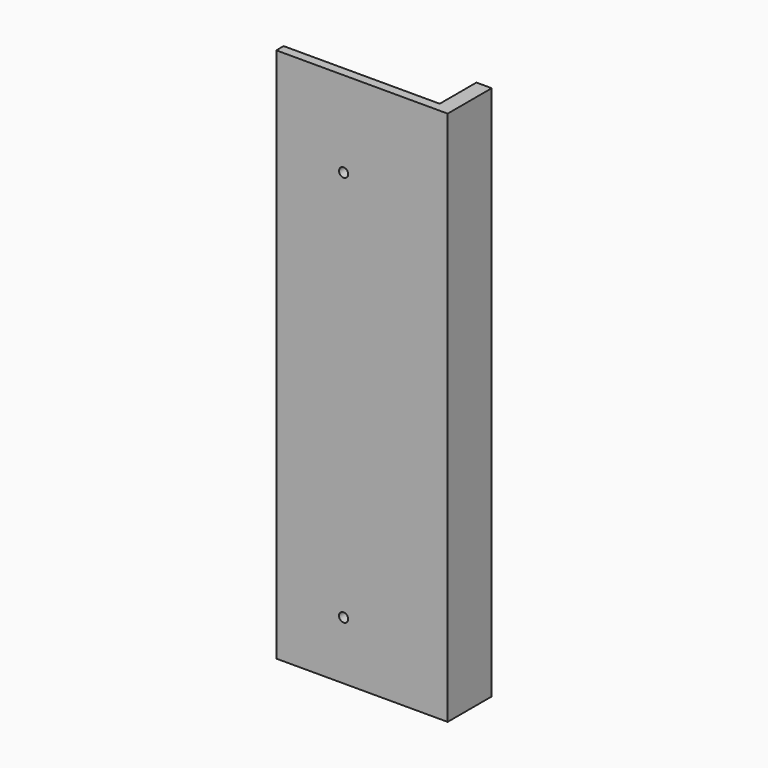
from build123d import *

# Parameters (mm, degrees)
F0_W     = 51
F0_H     = 170
F0_R     = 1.5
F1_DEPTH = 3
F2_DEPTH = 3
F3_DEPTH = 15


with BuildPart() as f1:
    # F0 (on Front) → F1 (new body)
    with BuildSketch(Plane.XZ):
        with Locations((-25.5, 85)):
            Rectangle(F0_W, F0_H)
        with Locations((-29, 14)):
            Circle(F0_R, mode=Mode.SUBTRACT)
        with Locations((-29, 142)):
            Circle(F0_R, mode=Mode.SUBTRACT)
    extrude(amount=F1_DEPTH)

    # F0 (on Front) → F2 (join)
    with BuildSketch(Plane.XZ):
        Polygon((0, 170), (0, 0), (-51, 0), (-51, -5), (0, -5), (5, -5), (5, 170), align=None)
    extrude(amount=F2_DEPTH)

    # F0 (on Front) → F3 (join)
    with BuildSketch(Plane.XZ):
        Polygon((0, 170), (0, 0), (-51, 0), (-51, -5), (0, -5), (5, -5), (5, 170), align=None)
    extrude(amount=-F3_DEPTH)


solid = f1.part
